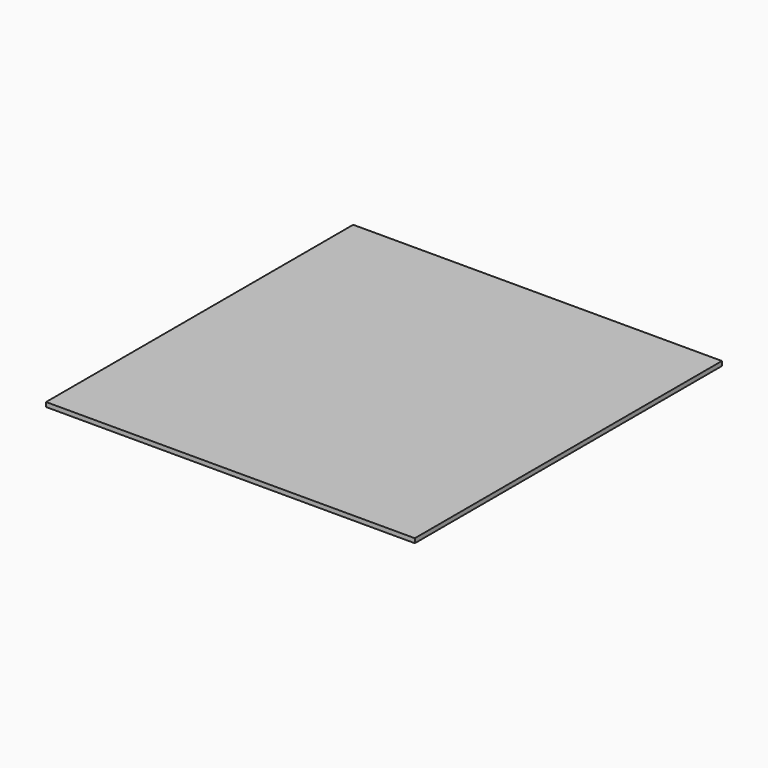
from build123d import *

# Parameters (mm, degrees)
SKETCH_W      = 498.6655
SKETCH_H      = 519.1252
EXTRUDE_DEPTH = 5.9944


with BuildPart() as part:
    # Sketch → Extrude (new body)
    with BuildSketch(Plane.XY):
        with Locations((160.647457, -24.679471)):
            Rectangle(SKETCH_W, SKETCH_H)
    extrude(amount=EXTRUDE_DEPTH)


solid = part.part
